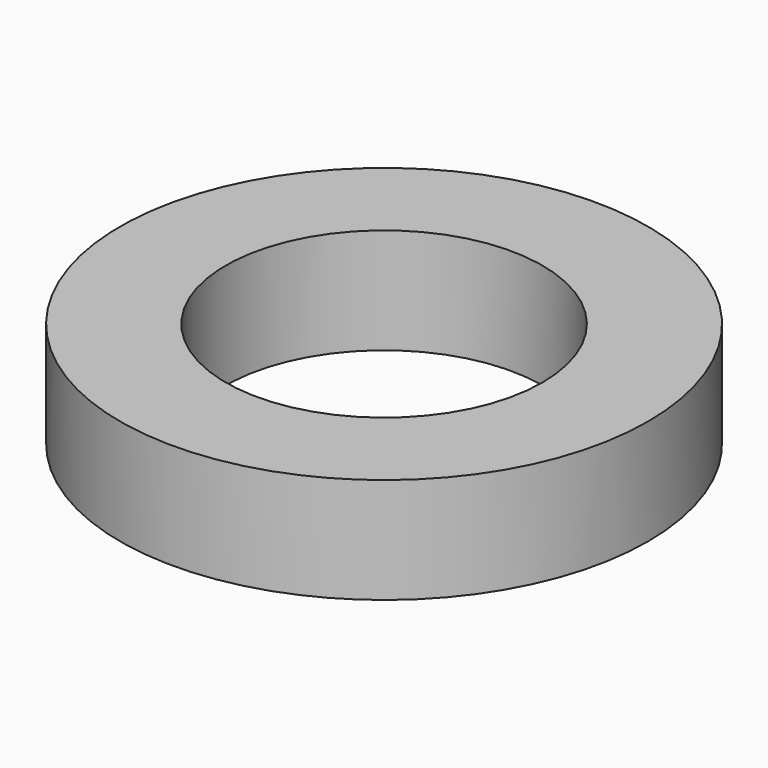
from build123d import *

# Parameters (mm, degrees)
SKETCH_R     = 5
PAD_DEPTH    = 2
SKETCH001_R  = 3
POCKET_DEPTH = 2


with BuildPart() as part:
    # Sketch → Pad (new body)
    with BuildSketch(Plane.XY):
        Circle(SKETCH_R)
    extrude(amount=PAD_DEPTH)

    # Sketch001 → Pocket (cut)
    with BuildSketch(Plane.XY):
        Circle(SKETCH001_R)
    extrude(amount=POCKET_DEPTH, mode=Mode.SUBTRACT)


solid = part.part
